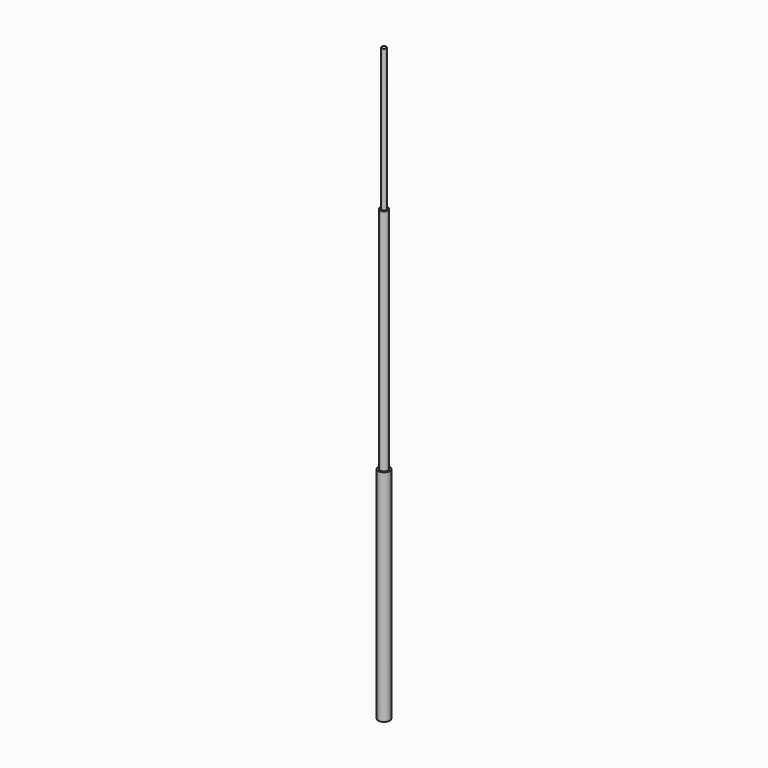
from build123d import *

# Parameters (mm, degrees)
F0_R     = 1.27
F1_DEPTH = 48.26
F2_R     = 0.889
F3_DEPTH = 98.552
F4_R     = 0.508
F5_DEPTH = 129.794


with BuildPart() as f1:
    # F0 (on Top) → F1 (new body)
    with BuildSketch(Plane.XY):
        Circle(F0_R)
    extrude(amount=F1_DEPTH)

    # F2 (on Top) → F3 (join)
    with BuildSketch(Plane.XY):
        Circle(F2_R)
    extrude(amount=F3_DEPTH)

    # F4 (on Top) → F5 (join)
    with BuildSketch(Plane.XY):
        Circle(F4_R)
    extrude(amount=F5_DEPTH)


solid = f1.part
